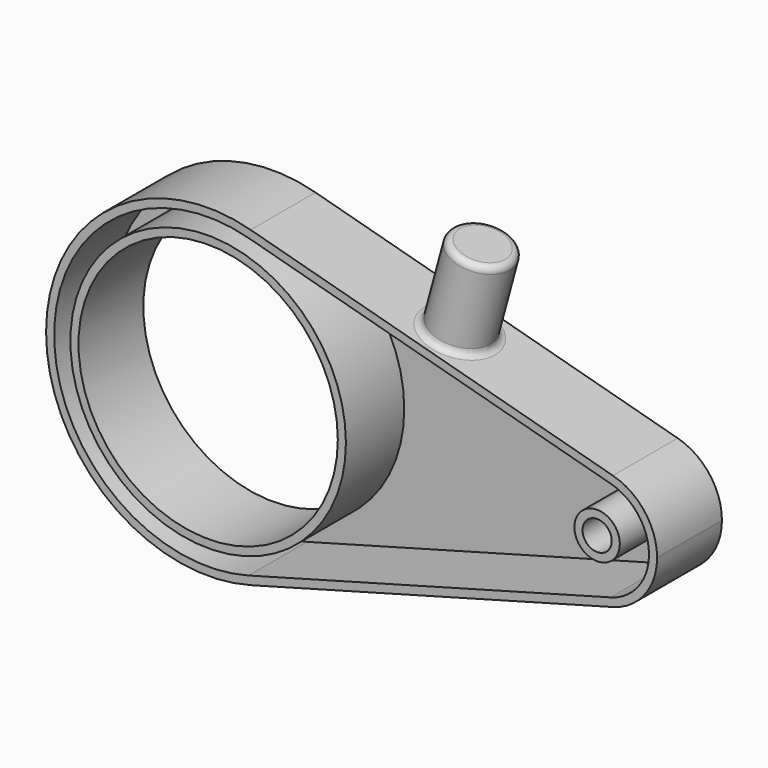
from build123d import *

# Parameters (mm, degrees)
F0_R     = 40
F1_DEPTH = 25
F2_R     = 9.27978
F3_DEPTH = 26.9
F4_R     = 2
F5_R     = 4.5
F6_DEPTH = 25.001
F7_T     = -2.5


with BuildPart() as f1:
    # F0 (on Front) → F1 (new body)
    with BuildSketch(Plane.XZ):
        with BuildLine():
            ThreePointArc((13.125, -48.2466), (39.725621, -30.362395), (50, 0))
            ThreePointArc((50, 0), (39.725621, 30.362395), (13.125, 48.2466))
            ThreePointArc((13.125, 48.2466), (-50, 0), (13.125, -48.2466))
        make_face()
        Circle(F0_R, mode=Mode.SUBTRACT)
        with BuildLine():
            ThreePointArc((13.125, 48.2466), (39.725621, 30.362395), (50, 0))
            ThreePointArc((50, 0), (39.725621, -30.362395), (13.125, -48.2466))
            Line((13.125, -48.2466), (124.85625, -17.851242))
            ThreePointArc((124.85625, -17.851242), (101.5, 0), (124.85625, 17.851242))
            Line((124.85625, 17.851242), (13.125, 48.2466))
        make_face()
        with BuildLine():
            ThreePointArc((138.5, 0), (134.69848, 11.234086), (124.85625, 17.851242))
            ThreePointArc((124.85625, 17.851242), (101.5, 0), (124.85625, -17.851242))
            ThreePointArc((124.85625, -17.851242), (134.69848, -11.234086), (138.5, 0))
        make_face()
    extrude(amount=F1_DEPTH)

    # F2 (on face) → F3 (join)
    with BuildSketch(Plane(origin=(13.125, 0, 48.2466), x_dir=(0.964932, 0, -0.2625), z_dir=(0.2625, 0, 0.964932))):
        with Locations((56.484982, -12.5)):
            Circle(F2_R)
    extrude(amount=F3_DEPTH)

    # F4
    f4_edges = [f1.edges().sort_by_distance(p)[0] for p in [
        (65.73606, -12.5, 61.811904),
        (58.67481, -12.5, 35.855234),
    ]]
    fillet(f4_edges, radius=F4_R)

    # F5 (on face) → F6 (cut, through all)
    with BuildSketch(Plane.XZ.offset(25)):
        with Locations((120, 0)):
            Circle(F5_R)
    extrude(amount=-F6_DEPTH, mode=Mode.SUBTRACT)

    # F7
    f7_openings = [f1.faces().sort_by_distance(p)[0] for p in [
        (52.131114, -25, 0),
    ]]
    offset(amount=F7_T, openings=f7_openings)


solid = f1.part
